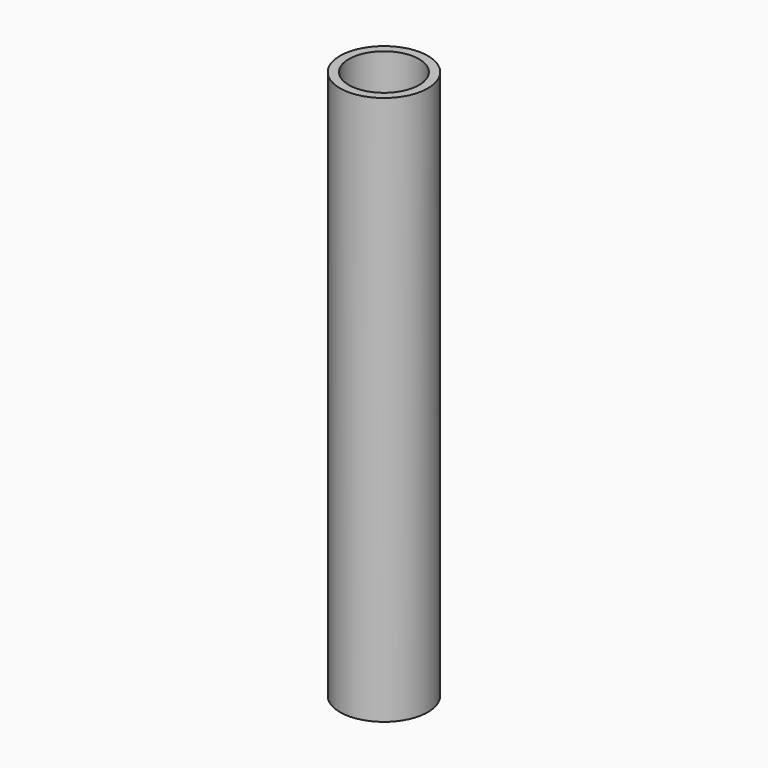
from build123d import *

# Parameters (mm, degrees)
F2_T = -2.4


with BuildPart() as f1:
    # F0 (on Front) → F1 (revolve)
    with BuildSketch(Plane.XZ):
        Polygon((0, 0), (0, 137.308873), (0, 150), (-12, 150), (-12, 0), align=None)
    revolve(axis=Axis((0, 0, 14.678898), (0, 0, -1)))

    # F2
    f2_openings = [f1.faces().sort_by_distance(p)[0] for p in [
        (0, 0, 150),
    ]]
    offset(amount=F2_T, openings=f2_openings)


solid = f1.part
